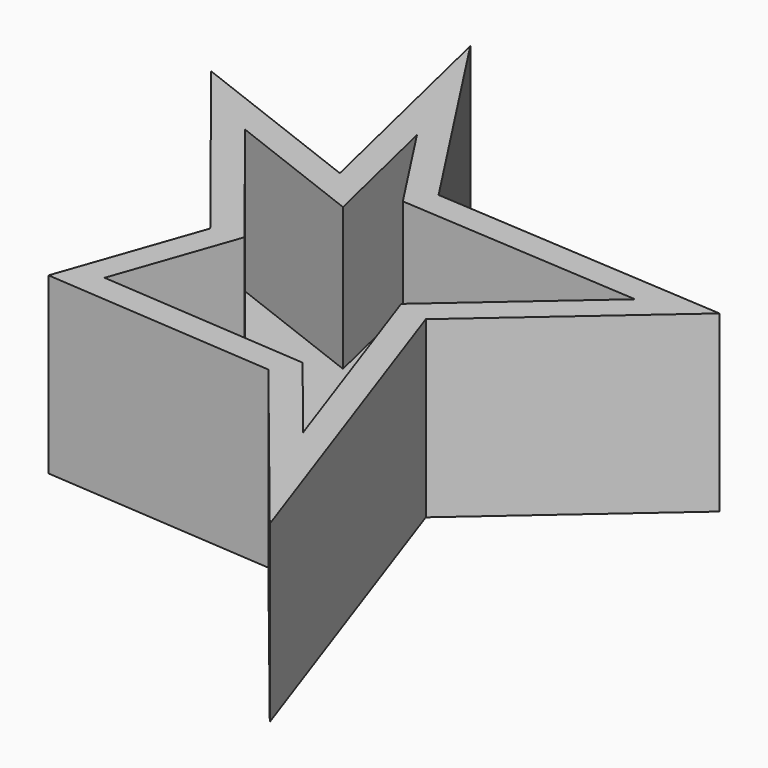
from build123d import *

# Parameters (mm, degrees)
F1_DEPTH = 76.2
F3_DEPTH = 62.23


with BuildPart() as f1:
    # F0 (on Top) → F1 (new body)
    with BuildSketch(Plane.XY):
        Polygon((94.227217, 44.845942), (-35.218999, 53.311478), (-95.495798, 145.953357), (-71.593605, 44.845942), (-152.917683, 76.2394), (-80.585986, -14.665665), (-102.024987, -76.140255), (0, -83.673872), (71.544036, -172.317266), (18.6927, -21.068443), align=None)
    extrude(amount=F1_DEPTH)

    # F2 (on face) → F3 (cut)
    with BuildSketch(Plane.XY.offset(76.2)):
        Polygon((5.911248, -72.394553), (38.253499, -112.466753), (5.055551, -17.461575), (65.213298, 35.034437), (-41.821007, 42.034277), (-68.682796, 83.319259), (-55.123725, 25.963743), (-116.983429, 49.843387), (-67.43257, -12.431166), (-85.978236, -65.60935), align=None)
    extrude(amount=-F3_DEPTH, mode=Mode.SUBTRACT)


solid = f1.part
